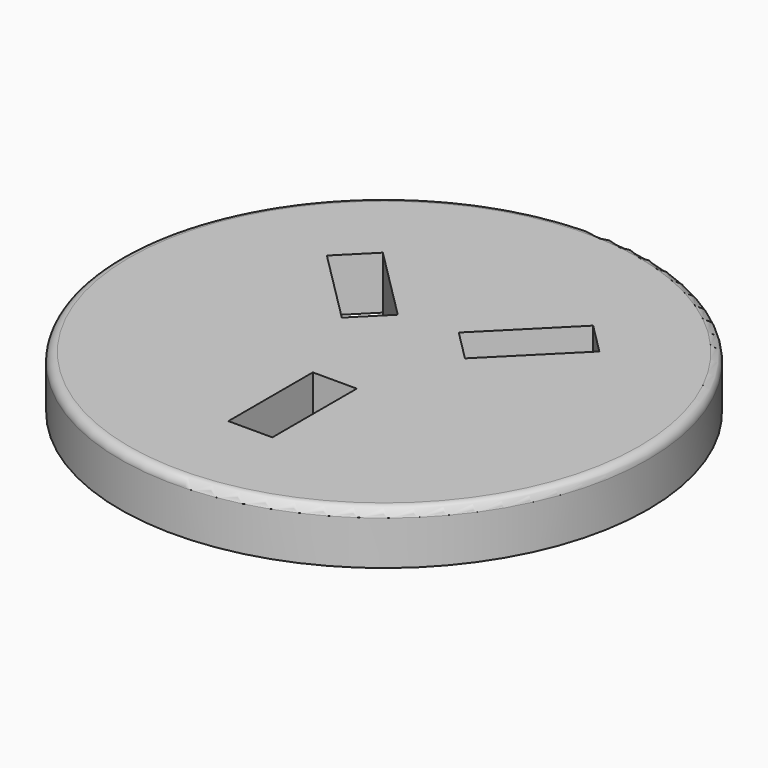
from build123d import *

# Parameters (mm, degrees)
F0_R     = 150
F1_DEPTH = 30
F2_R     = 5


with BuildPart() as f1:
    # F0 (on Top) → F1 (new body)
    with BuildSketch(Plane.XY):
        Circle(F0_R)
        Polygon((-12.5, -35), (0, -35), (12.5, -35), (12.5, -95), (-12.5, -95), align=None, mode=Mode.SUBTRACT)
        Polygon((-35.355339, 14.142136), (-77.781746, 56.568542), (-60.104076, 74.246212), (-17.67767, 31.819805), align=None, mode=Mode.SUBTRACT)
        Polygon((56.568542, 77.781746), (74.246212, 60.104076), (31.819805, 17.67767), (14.142136, 35.355339), align=None, mode=Mode.SUBTRACT)
    extrude(amount=F1_DEPTH)

    # F2
    f2_edges = [f1.edges().sort_by_distance(p)[0] for p in [
        (-150, 0, 30),
    ]]
    fillet(f2_edges, radius=F2_R)


solid = f1.part
